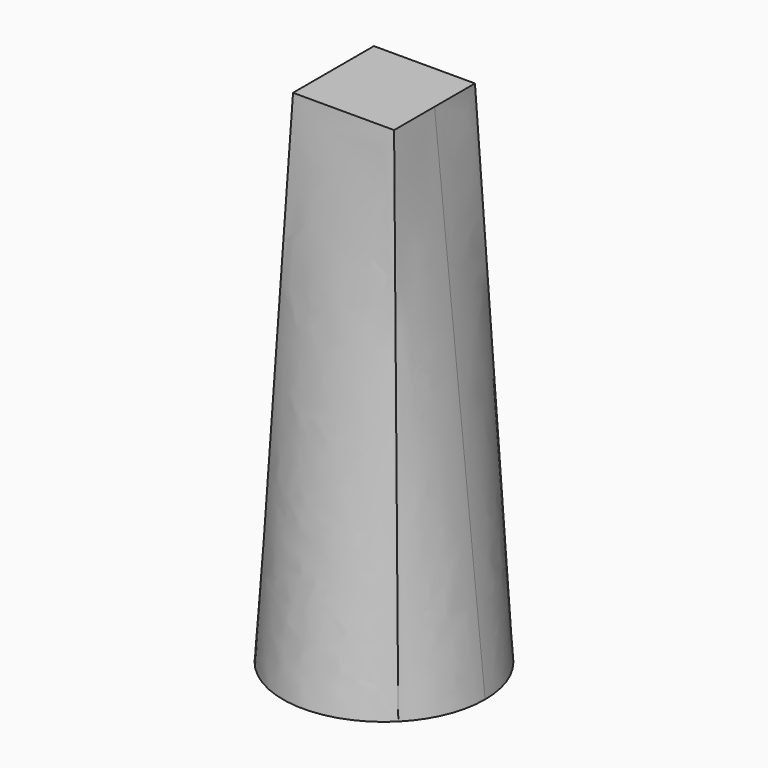
from build123d import *

# Parameters (mm, degrees)
F0_R = 508
F2_W = 508
F2_H = 508


with BuildPart() as f3:
    # F0 (on Top) → F3 section 0
    with BuildSketch(Plane.XY):
        Circle(F0_R)
    # F2 (on offset) → F3 section 1
    with BuildSketch(Plane.XY.offset(2540)):
        Rectangle(F2_W, F2_H)
    loft()


solid = f3.part
